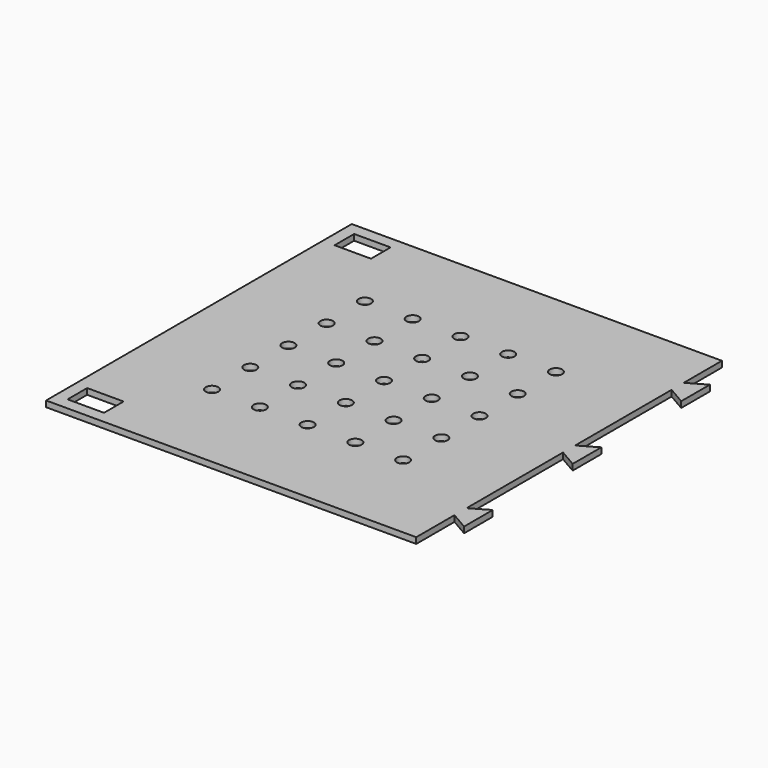
from build123d import *

# Parameters (mm, degrees)
SKETCH_W        = 155
SKETCH_H        = 160
PAD_DEPTH       = 2.5
SKETCH001_W     = 15.25
SKETCH001_H     = 10.25
POCKET_DEPTH    = 2.5
SKETCH002_R     = 2.625
POCKET001_DEPTH = 2.5
PAD001_DEPTH    = 2.5


with BuildPart() as part:
    # Sketch → Pad (new body)
    with BuildSketch(Plane.XY):
        with Locations((0.10674, -30.909095)):
            Rectangle(SKETCH_W, SKETCH_H)
    extrude(amount=PAD_DEPTH)

    # Sketch001 (on Face6 of Pad) → Pocket (cut)
    with BuildSketch(Plane.XY.offset(2.5)):
        with Locations((-64.76826, 38.965905)):
            Rectangle(SKETCH001_W, SKETCH001_H)
        with Locations((-64.76826, -100.784095)):
            Rectangle(SKETCH001_W, SKETCH001_H)
    extrude(amount=-POCKET_DEPTH, mode=Mode.SUBTRACT)

    # Sketch002 (on Face5 of Pocket) → Pocket001 (cut)
    with BuildSketch(Plane.XY.offset(2.5)):
        with Locations((-19.89326, -30.909095)):
            Circle(SKETCH002_R)
        with Locations((-39.89326, -30.909095)):
            Circle(SKETCH002_R)
        with Locations((0.10674, -30.909095)):
            Circle(SKETCH002_R)
        with Locations((20.10674, -30.909095)):
            Circle(SKETCH002_R)
        with Locations((40.10674, -30.909095)):
            Circle(SKETCH002_R)
        with Locations((-39.89326, -10.909095)):
            Circle(SKETCH002_R)
        with Locations((-19.89326, -10.909095)):
            Circle(SKETCH002_R)
        with Locations((0.10674, -10.909095)):
            Circle(SKETCH002_R)
        with Locations((20.10674, -10.909095)):
            Circle(SKETCH002_R)
        with Locations((40.10674, -10.909095)):
            Circle(SKETCH002_R)
        with Locations((-39.89326, -50.909095)):
            Circle(SKETCH002_R)
        with Locations((-19.89326, -50.909095)):
            Circle(SKETCH002_R)
        with Locations((0.10674, -50.909095)):
            Circle(SKETCH002_R)
        with Locations((20.10674, -50.909095)):
            Circle(SKETCH002_R)
        with Locations((40.10674, -50.909095)):
            Circle(SKETCH002_R)
        with Locations((-39.89326, -70.909095)):
            Circle(SKETCH002_R)
        with Locations((-19.89326, -70.909095)):
            Circle(SKETCH002_R)
        with Locations((0.10674, -70.909095)):
            Circle(SKETCH002_R)
        with Locations((20.10674, -70.909095)):
            Circle(SKETCH002_R)
        with Locations((40.10674, -70.909095)):
            Circle(SKETCH002_R)
        with Locations((-39.89326, 9.090905)):
            Circle(SKETCH002_R)
        with Locations((-19.89326, 9.090905)):
            Circle(SKETCH002_R)
        with Locations((0.10674, 9.090905)):
            Circle(SKETCH002_R)
        with Locations((20.10674, 9.090905)):
            Circle(SKETCH002_R)
        with Locations((40.10674, 9.090905)):
            Circle(SKETCH002_R)
    extrude(amount=-POCKET001_DEPTH, mode=Mode.SUBTRACT)

    # Sketch003 (on Face5 of Pocket001) → Pad001 (join)
    with BuildSketch(Plane.XY.offset(2.5)):
        Polygon((77.60674, -84.569349), (85.10674, -80.239222), (85.10674, -95.239222), (77.60674, -90.909095), align=None)
        Polygon((77.60674, -34.078841), (85.10674, -38.408968), (85.10674, -23.408968), (77.60674, -27.739095), align=None)
        Polygon((77.60674, 29.090905), (85.10674, 33.421032), (85.10674, 18.421032), (77.60674, 22.751159), align=None)
    extrude(amount=-PAD001_DEPTH)


solid = part.part
